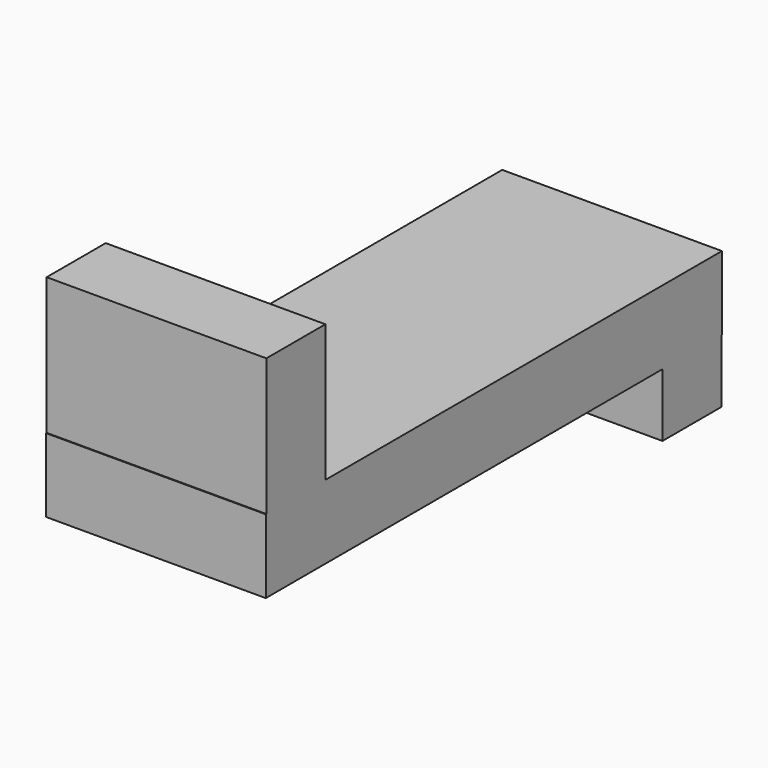
from build123d import *

# Parameters (mm, degrees)
F2_W     = 22.352
F2_H     = 63.5
F3_DEPTH = 66.548
F0_W     = 172.72
F0_H     = 22.352
F4_DEPTH = 66.548
F1_W     = 22.352
F1_H     = 41.148
F5_DEPTH = 66.548


with BuildPart() as f3:
    # F2 (on Right) → F3 (new body)
    with BuildSketch(Plane.YZ):
        with Locations((-74.962673, 20.931003)):
            Rectangle(F2_W, F2_H)
    extrude(amount=-F3_DEPTH)

    # F0 (on Right) → F4 (join)
    with BuildSketch(Plane.YZ):
        Rectangle(F0_W, F0_H)
    extrude(amount=-F4_DEPTH)

    # F1 (on Right) → F5 (join)
    with BuildSketch(Plane.YZ):
        with Locations((75.032448, -9.758694)):
            Rectangle(F1_W, F1_H)
    extrude(amount=-F5_DEPTH)


solid = f3.part
